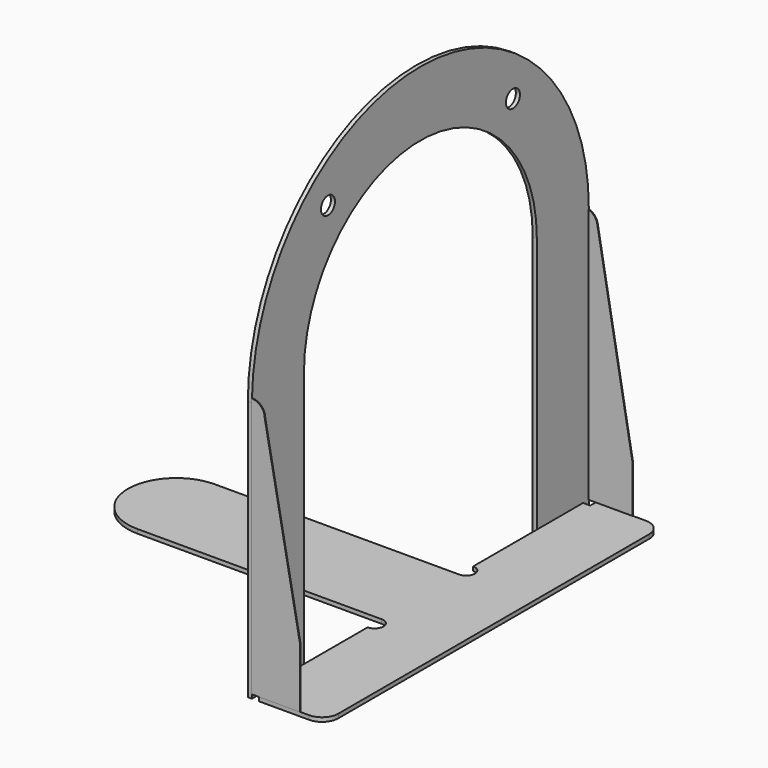
from build123d import *

# Parameters (mm, degrees)
F0_W      = 45
F0_H      = 14.9
F1_DEPTH  = 0.63
F2_R      = 7.4
F3_R      = 7.4
F4_DEPTH  = 0.63
F6_W      = 10
F6_H      = 40.06
F7_DEPTH  = 0.63
F8_DEPTH  = 0.63
F10_DEPTH = 0.05
F11_R     = 2.5
F13_DEPTH = 0.05
F15_D     = 2.7
F5_W      = 1.1
F5_H      = 1.1
F16_DEPTH = 0.631


with BuildPart() as f1:
    # F0 (on Top) → F1 (new body)
    with BuildSketch(Plane.XY):
        with Locations((-10.817694, -7.45)):
            Rectangle(F0_W, F0_H)
    extrude(amount=F1_DEPTH)

    # F2
    f2_edges = [f1.edges().sort_by_distance(p)[0] for p in [
        (-33.317694, 0, 0.315),
    ]]
    fillet(f2_edges, radius=F2_R)

    # F3
    f3_edges = [f1.edges().sort_by_distance(p)[0] for p in [
        (-33.317694, -14.9, 0.315),
    ]]
    fillet(f3_edges, radius=F3_R)

    # F0 (on Top) → F4 (join)
    with BuildSketch(Plane.XY):
        Polygon((11.682306, 24.95), (11.682306, 0), (11.682306, -14.9), (11.682306, -39.85), (22.972306, -39.85), (22.972306, 24.95), align=None)
    extrude(amount=F4_DEPTH)

    # F6 (on face) → F7 (join)
    with BuildSketch(Plane(origin=(11.682306, 0, 0), x_dir=(0, -1, 0), z_dir=(-1, 0, 0))):
        with Locations((34.85, 20.03)):
            Rectangle(F6_W, F6_H)
        with Locations((-19.95, 20.03)):
            Rectangle(F6_W, F6_H)
    extrude(amount=F7_DEPTH)

    # F6 (on face) → F8 (join)
    with BuildSketch(Plane(origin=(11.682306, 0, 0), x_dir=(0, -1, 0), z_dir=(-1, 0, 0))):
        with Locations((34.85, 20.03)):
            Rectangle(F6_W, F6_H)
        with BuildLine():
            Line((29.85, 40.06), (39.85, 40.06))
            ThreePointArc((39.85, 40.06), (7.45, 72.46), (-24.95, 40.06))
            Line((-24.95, 40.06), (-14.95, 40.06))
            ThreePointArc((-14.95, 40.06), (7.45, 62.46), (29.85, 40.06))
        make_face()
        with Locations((-19.95, 20.03)):
            Rectangle(F6_W, F6_H)
    extrude(amount=F8_DEPTH)

    # F9 (on face) → F10 (join, symmetric)
    with BuildSketch(Plane.XZ.offset(39.85)):
        with BuildLine():
            Line((11.682306, 36.690054), (11.682306, 0.63))
            Line((11.682306, 0.63), (19.082306, 0.63))
            Line((19.082306, 0.63), (19.082306, 10.063524))
            Line((19.082306, 10.063524), (13.692664, 38.690027))
            ThreePointArc((13.692664, 38.690027), (13.103211, 37.272156), (11.682306, 36.690054))
        make_face()
        with BuildLine():
            Line((11.682306, 40.06), (11.682306, 36.690054))
            ThreePointArc((11.682306, 36.690054), (13.103211, 37.272156), (13.692664, 38.690027))
            ThreePointArc((13.692664, 38.690027), (13.103211, 40.107898), (11.682306, 40.69))
            Line((11.682306, 40.69), (11.682306, 40.06))
        make_face()
    extrude(amount=F10_DEPTH, both=True)

    # F11
    f11_edges = [f1.edges().sort_by_distance(p)[0] for p in [
        (22.972306, -39.85, 0.315),
        (22.972306, 24.95, 0.315),
    ]]
    fillet(f11_edges, radius=F11_R)

    # F12 (on face) → F13 (join, symmetric)
    with BuildSketch(Plane(origin=(0, 24.95, 0), x_dir=(-1, 0, 0), z_dir=(0, 1, 0))):
        with BuildLine():
            Line((-18.452306, 7.854219), (-18.452306, 0.63))
            Line((-18.452306, 0.63), (-11.682306, 0.63))
            Line((-11.682306, 0.63), (-11.682306, 36.161817))
            ThreePointArc((-11.682306, 36.161817), (-12.762503, 37.023069), (-13.026688, 38.379087))
            Line((-13.026688, 38.379087), (-18.452306, 7.854219))
        make_face()
        with BuildLine():
            Line((-11.682306, 36.161817), (-11.682306, 39.958183))
            ThreePointArc((-11.682306, 39.958183), (-12.575161, 39.3565), (-13.026688, 38.379087))
            ThreePointArc((-13.026688, 38.379087), (-12.762503, 37.023069), (-11.682306, 36.161817))
        make_face()
    extrude(amount=F13_DEPTH, both=True)

    # F15 (through all)
    with Locations(Plane.YZ.offset(11.682306)):
        with Locations((-25.227612, 60.88687), (10.350126, 60.88687)):
            Hole(F15_D / 2)

    # F5 (on face) → F16 (cut, through all)
    with BuildSketch(Plane.XY.offset(0.63)):
        with Locations((12.232306, 24.4)):
            Rectangle(F5_W, F5_H)
        with BuildLine():
            ThreePointArc((11.682306, 0), (13.032306, 1.35), (11.682306, 2.7))
            Line((11.682306, 2.7), (11.682306, 0))
        make_face()
        with BuildLine():
            Line((11.682306, -14.9), (11.682306, -17.6))
            ThreePointArc((11.682306, -17.6), (13.032306, -16.25), (11.682306, -14.9))
        make_face()
        with Locations((12.232306, -39.3)):
            Rectangle(F5_W, F5_H)
    extrude(amount=-F16_DEPTH, mode=Mode.SUBTRACT)


solid = f1.part
